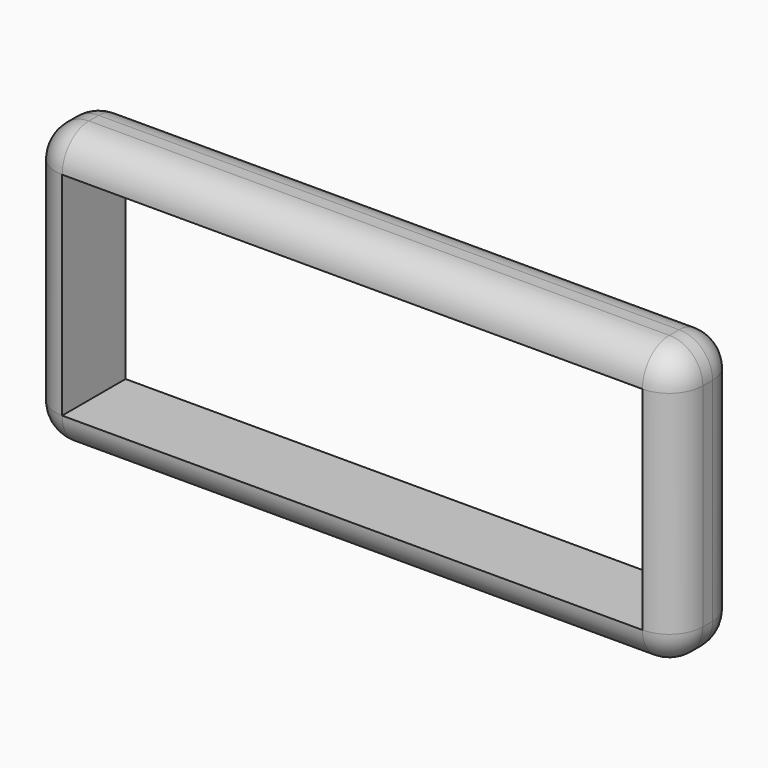
from build123d import *

# Parameters (mm, degrees)
F0_W     = 4655.8878421783
F0_H     = 2008.3943009377
F1_DEPTH = 570
F2_R     = 241.4213562373
F3_W     = 4173.0451297037
F3_H     = 1525.551588463
F4_DEPTH = 1630


with BuildPart() as f1:
    # F0 (on Front) → F1 (new body)
    with BuildSketch(Plane.XZ):
        with Locations((267.1424150467, 385.8650624752)):
            Rectangle(F0_W, F0_H)
    extrude(amount=F1_DEPTH)

    # F2
    f2_edges = [f1.edges().sort_by_distance(p)[0] for p in [
        (267.142415, -570, 1390.062213),
        (267.142415, -570, -618.332088),
        (-2060.801506, -570, 385.865062),
        (2595.086336, -570, 385.865062),
        (2595.086336, -285, 1390.062213),
        (267.142415, 0, 1390.062213),
        (-2060.801506, 0, 385.865062),
        (2595.086336, 0, 385.865062),
        (267.142415, 0, -618.332088),
        (2595.086336, -285, -618.332088),
        (-2060.801506, -285, 1390.062213),
        (-2060.801506, -285, -618.332088),
    ]]
    fillet(f2_edges, radius=F2_R)

    # F3 (on face) → F4 (cut)
    with BuildSketch(Plane.XZ.offset(570)):
        with Locations((267.1424150467, 385.8650624752)):
            Rectangle(F3_W, F3_H)
    extrude(amount=-F4_DEPTH, mode=Mode.SUBTRACT)


solid = f1.part
